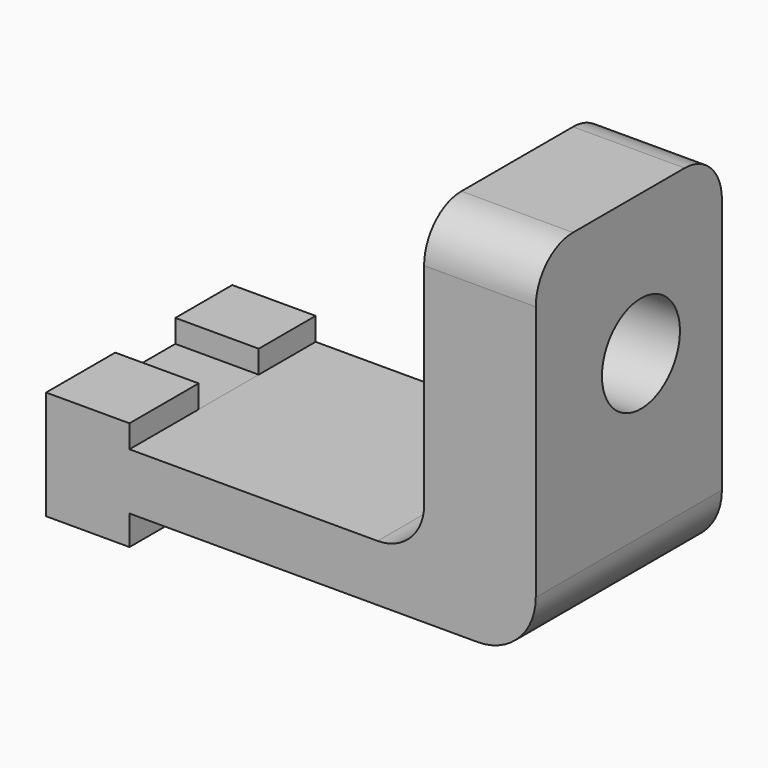
from build123d import *

# Parameters (mm, degrees)
F1_DEPTH = 25.4
F2_R     = 10.16
F3_W     = 16.397063
F3_H     = 4.992783
F4_DEPTH = 50.8
F5_W     = 16.584933
F5_H     = 6.461252
F6_DEPTH = 50.8
F7_R     = 10.636269
F8_DEPTH = 25.4
F9_R     = 12.7


with BuildPart() as f1:
    # F0 (on Front) → F1 (new body, symmetric)
    with BuildSketch(Plane.XZ):
        Polygon((28.928787, 42.732362), (4.552247, 42.732362), (4.552247, -23.642305), (-59.766572, -23.642305), (-59.766572, -18.649522), (-77.975549, -18.649522), (-77.975549, -42.438675), (-59.766572, -42.438675), (-59.766572, -35.977423), (4.552247, -35.977423), (28.928787, -35.977423), align=None)
    extrude(amount=F1_DEPTH, both=True)

    # F2
    f2_edges = [f1.edges().sort_by_distance(p)[0] for p in [
        (4.552247, 0, -23.642305),
        (16.740517, 25.4, 42.732362),
        (16.740517, -25.4, 42.732362),
    ]]
    fillet(f2_edges, radius=F2_R)

    # F3 (on face) → F4 (cut)
    with BuildSketch(Plane.YZ.offset(-59.766572)):
        with Locations((1.671789, -21.145913)):
            Rectangle(F3_W, F3_H)
    extrude(amount=-F4_DEPTH, mode=Mode.SUBTRACT)

    # F5 (on face) → F6 (cut)
    with BuildSketch(Plane.YZ.offset(-59.766572)):
        with Locations((-1.542345, -39.208049)):
            Rectangle(F5_W, F5_H)
    extrude(amount=-F6_DEPTH, mode=Mode.SUBTRACT)

    # F7 (on face) → F8 (cut, symmetric)
    with BuildSketch(Plane(origin=(4.552247, 0, 0), x_dir=(0, -1, 0), z_dir=(-1, 0, 0))):
        with Locations((-3.302, 11.92803)):
            Circle(F7_R)
    extrude(amount=F8_DEPTH, both=True, mode=Mode.SUBTRACT)

    # F9
    f9_edges = [f1.edges().sort_by_distance(p)[0] for p in [
        (28.928787, 0, -35.977423),
    ]]
    fillet(f9_edges, radius=F9_R)


solid = f1.part
